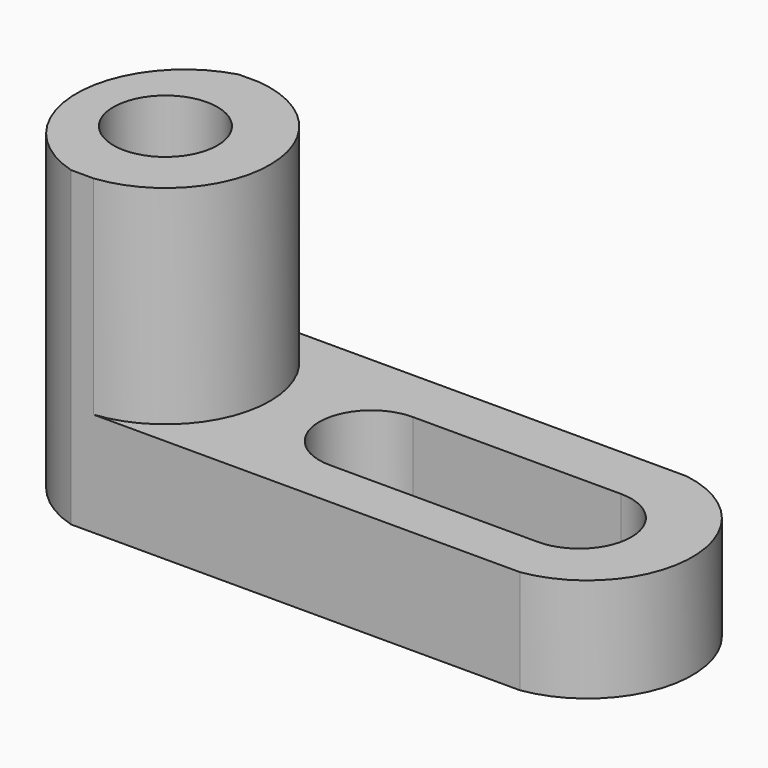
from build123d import *

# Parameters (mm, degrees)
F1_DEPTH = 25.4
F2_DEPTH = 76.2
F3_R     = 12.7
F4_DEPTH = 76.201
F6_DEPTH = 25.401


with BuildPart() as f1:
    # F0 (on Top) → F1 (new body)
    with BuildSketch(Plane.XY):
        with BuildLine():
            Line((54.951176, 25.445276), (-49.537972, 25.445276))
            ThreePointArc((-49.537972, 25.445276), (-26.458922, 0.186695), (-49.224562, -25.354724))
            Line((-49.224562, -25.354724), (54.951176, -25.354724))
            ThreePointArc((54.951176, -25.354724), (76.688998, 0.045276), (54.951176, 25.445276))
        make_face()
    extrude(amount=F1_DEPTH)

    # F0 (on Top) → F2 (join)
    with BuildSketch(Plane.XY):
        with BuildLine():
            Line((-49.537972, 25.445276), (-54.447679, 25.445276))
            ThreePointArc((-54.447679, 25.445276), (-73.704644, 0.163115), (-54.761089, -25.354724))
            Line((-54.761089, -25.354724), (-49.224562, -25.354724))
            ThreePointArc((-49.224562, -25.354724), (-26.458922, 0.186695), (-49.537972, 25.445276))
        make_face()
    extrude(amount=F2_DEPTH)

    # F3 (on face) → F4 (cut, through all)
    with BuildSketch(Plane.XY.offset(76.2)):
        with Locations((-51.992825, 0.029164)):
            Circle(F3_R)
    extrude(amount=-F4_DEPTH, mode=Mode.SUBTRACT)

    # F5 (on face) → F6 (cut, through all)
    with BuildSketch(Plane.XY.offset(25.4)):
        with BuildLine():
            Line((49.735157, 11.921302), (-1.064843, 11.921302))
            ThreePointArc((-1.064843, 11.921302), (-13.764843, -0.778698), (-1.064843, -13.478698))
            Line((-1.064843, -13.478698), (49.735157, -13.478698))
            ThreePointArc((49.735157, -13.478698), (62.435157, -0.778698), (49.735157, 11.921302))
        make_face()
    extrude(amount=-F6_DEPTH, mode=Mode.SUBTRACT)


solid = f1.part
